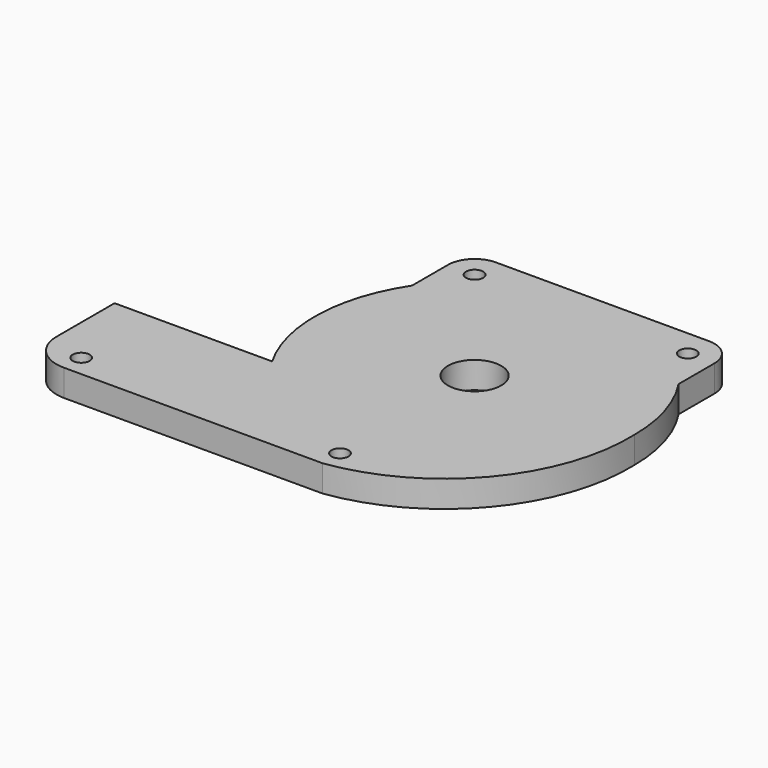
from build123d import *

# Parameters (mm, degrees)
F0_R     = 2.032
F0_R_2   = 6.35
F1_DEPTH = 6.35


with BuildPart() as f1:
    # F0 (on Top) → F1 (new body)
    with BuildSketch(Plane.XY):
        with BuildLine():
            ThreePointArc((19.7957990072, -39.4337052755), (47.5560493208, -24.1519845894), (57.9235114877, 5.7926011118))
            ThreePointArc((57.9235114877, 5.7926011118), (56.3014842932, 16.7911237399), (51.5735114877, 26.8531685306))
            Line((51.5735114877, 26.8531685306), (51.5735114877, 37.5426011118))
            ThreePointArc((51.5735114877, 37.5426011118), (49.7136395482, 42.0327291723), (45.2235114877, 43.8926011118))
            Line((45.2235114877, 43.8926011118), (19.8235114877, 43.8926011118))
            Line((19.8235114877, 43.8926011118), (-5.5764885123, 43.8926011118))
            ThreePointArc((-5.5764885123, 43.8926011118), (-10.0666165728, 42.0327291723), (-11.9264885123, 37.5426011118))
            Line((-11.9264885123, 37.5426011118), (-11.9264885123, 26.8531685306))
            ThreePointArc((-11.9264885123, 26.8531685306), (-18.25813166, 6.9751640805), (-13.1720563965, -13.2573988882))
            Line((-13.1720563965, -13.2573988882), (-50.7122885123, -13.2573988882))
            Line((-50.7122885123, -13.2573988882), (-50.7122885123, -25.9573988882))
            Line((-50.7122885123, -25.9573988882), (-50.7122885123, -30.5437052755))
            ThreePointArc((-50.7122885123, -30.5437052755), (-48.1084677971, -36.8298845602), (-41.8222885123, -39.4337052755))
            Line((-41.8222885123, -39.4337052755), (19.7957990072, -39.4337052755))
        make_face()
        with Locations((-41.8222885123, -34.2946651749)):
            Circle(F0_R, mode=Mode.SUBTRACT)
        with BuildLine():
            ThreePointArc((17.7915114877, -34.2946651749), (19.8235114877, -32.2626651749), (21.8555114877, -34.2946651749))
            ThreePointArc((21.8555114877, -34.2946651749), (19.8235114877, -36.3266651749), (17.7915114877, -34.2946651749))
        make_face(mode=Mode.SUBTRACT)
        with Locations((-5.5764885123, 37.5426011118)):
            Circle(F0_R, mode=Mode.SUBTRACT)
        with Locations((19.8235114877, 5.7926011118)):
            Circle(F0_R_2, mode=Mode.SUBTRACT)
        with Locations((45.2235114877, 37.5426011118)):
            Circle(F0_R, mode=Mode.SUBTRACT)
    extrude(amount=F1_DEPTH)


solid = f1.part
